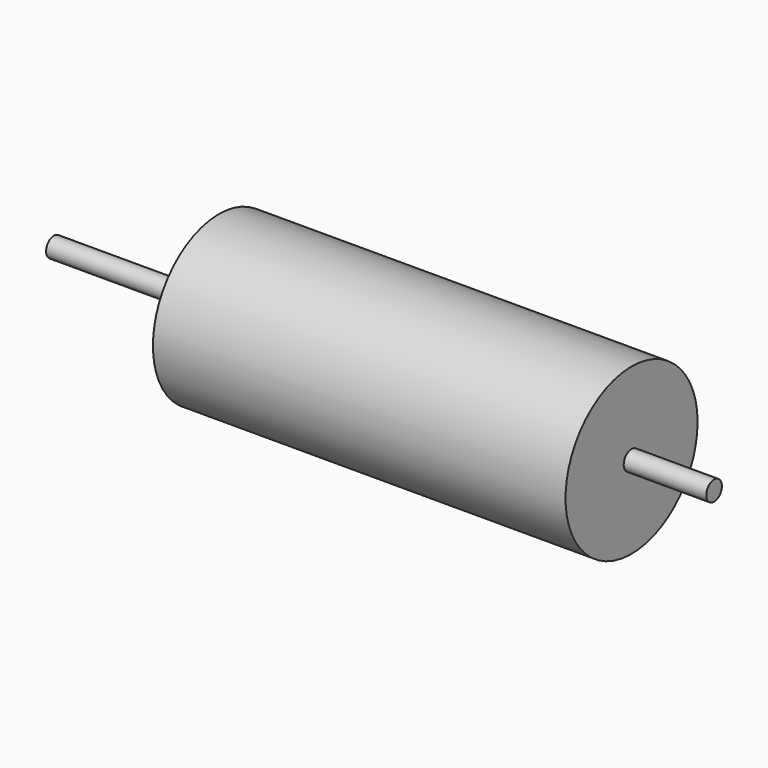
from build123d import *

# Parameters (mm, degrees)
F0_R     = 20
F1_DEPTH = 100
F2_R     = 2.375
F3_DEPTH = 20
F4_R     = 2.375
F5_DEPTH = 40


with BuildPart() as f1:
    # F0 (on Right) → F1 (new body)
    with BuildSketch(Plane.YZ):
        Circle(F0_R)
    extrude(amount=F1_DEPTH)

    # F2 (on face) → F3 (join)
    with BuildSketch(Plane.YZ.offset(100)):
        Circle(F2_R)
    extrude(amount=F3_DEPTH)

    # F4 (on face) → F5 (join)
    with BuildSketch(Plane.YZ):
        Circle(F4_R)
    extrude(amount=-F5_DEPTH)


solid = f1.part
